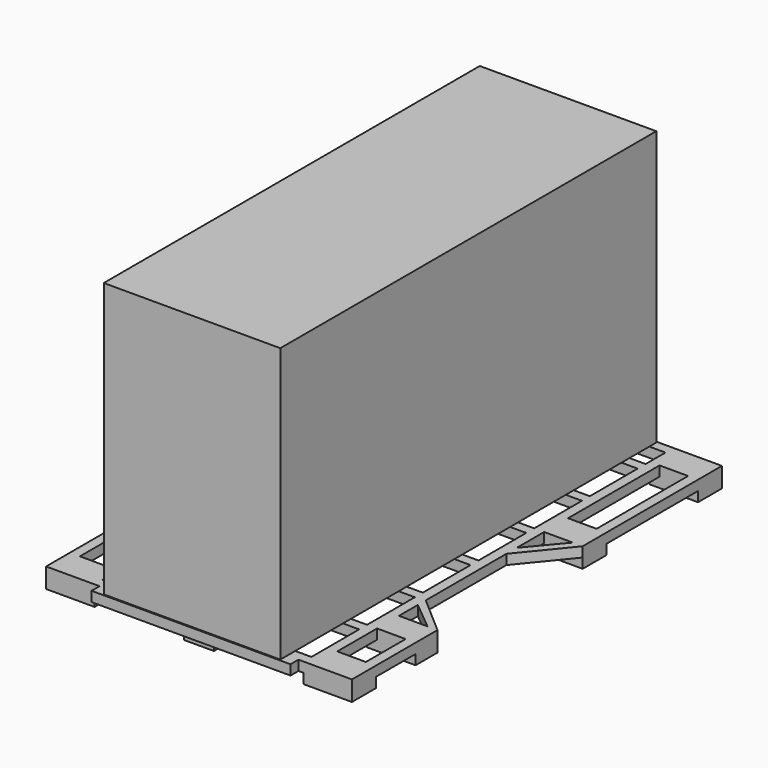
from build123d import *

# Parameters (mm, degrees)
F0_W     = 50.8
F0_H     = 50.8
F0_H_2   = 127
F0_H_3   = 304.8
F0_H_4   = 838.2
F0_H_5   = 495.3
F1_DEPTH = 25.4
F2_W     = 146.05
F2_H     = 101.6
F2_W_2   = 50.8
F2_H_2   = 114.3
F2_H_3   = 139.7
F2_H_4   = 152.4
F2_H_5   = 50.8
F2_H_6   = 127
F3_DEPTH = 50.8
F4_W     = 1016
F4_H     = 50.8
F5_DEPTH = 50.8
F6_W     = 901.7
F6_H     = 2400.3
F7_DEPTH = 1400.048


with BuildPart() as f1:
    # F0 (on Top) → F1 (new body, symmetric)
    with BuildSketch(Plane.XY):
        Polygon((-972.9399339676, 2560.3946716309), (-826.8899339676, 2560.3946716309), (-826.8899339676, 2611.1946716309), (-1023.7399339676, 2611.1946716309), (-1023.7399339676, 2560.3946716309), align=None)
        Polygon((-776.0899339676, 2611.1946716309), (-776.0899339676, 2560.3946716309), (-268.0899339676, 2560.3946716309), (-217.2899339676, 2560.3946716309), (290.7100660324, 2560.3946716309), (290.7100660324, 2611.1946716309), align=None)
        with Locations((-801.4899339676, 2585.7946716309)):
            Rectangle(F0_W, F0_H)
        Polygon((-826.8899339676, 915.7446716309), (-826.8899339676, 299.7946716309), (-776.0899339676, 299.7946716309), (-776.0899339676, 604.5946716309), (-776.0899339676, 655.3946716309), (-776.0899339676, 960.1946716309), (-776.0899339676, 1010.9946716309), (-776.0899339676, 1315.7946716309), (-776.0899339676, 1366.5946716309), (-776.0899339676, 1671.3946716309), (-776.0899339676, 1722.1946716309), (-776.0899339676, 2026.9946716309), (-776.0899339676, 2077.7946716309), (-776.0899339676, 2382.5946716309), (-776.0899339676, 2433.3946716309), (-776.0899339676, 2560.3946716309), (-826.8899339676, 2560.3946716309), (-826.8899339676, 1550.6180524826), (-826.8899339676, 1480.8946716309), (-826.8899339676, 966.5446716309), align=None)
        Polygon((341.5100660324, 2611.1946716309), (341.5100660324, 2560.3946716309), (487.5600660324, 2560.3946716309), (538.3600660324, 2560.3946716309), (538.3600660324, 2611.1946716309), align=None)
        with Locations((316.1100660324, 2585.7946716309)):
            Rectangle(F0_W, F0_H)
        Polygon((290.7100660324, 299.7946716309), (341.5100660324, 299.7946716309), (341.5100660324, 915.7446716309), (341.5100660324, 966.5446716309), (341.5100660324, 1480.8946716309), (341.5100660324, 1547.6679801941), (341.5100660324, 2560.3946716309), (290.7100660324, 2560.3946716309), (290.7100660324, 2433.3946716309), (290.7100660324, 2382.5946716309), (290.7100660324, 2077.7946716309), (290.7100660324, 2026.9946716309), (290.7100660324, 1722.1946716309), (290.7100660324, 1671.3946716309), (290.7100660324, 1366.5946716309), (290.7100660324, 1315.7946716309), (290.7100660324, 1010.9946716309), (290.7100660324, 960.1946716309), (290.7100660324, 655.3946716309), (290.7100660324, 604.5946716309), align=None)
        Polygon((-268.0899339676, 2433.3946716309), (-776.0899339676, 2433.3946716309), (-776.0899339676, 2382.5946716309), (-268.0899339676, 2382.5946716309), (-217.2899339676, 2382.5946716309), (290.7100660324, 2382.5946716309), (290.7100660324, 2433.3946716309), (-217.2899339676, 2433.3946716309), align=None)
        with Locations((-242.6899339676, 2496.8946716309)):
            Rectangle(F0_W, F0_H_2)
        with Locations((-242.6899339676, 2230.1946716309)):
            Rectangle(F0_W, F0_H_3)
        Polygon((-268.0899339676, 2077.7946716309), (-776.0899339676, 2077.7946716309), (-776.0899339676, 2026.9946716309), (-268.0899339676, 2026.9946716309), (-217.2899339676, 2026.9946716309), (290.7100660324, 2026.9946716309), (290.7100660324, 2077.7946716309), (-217.2899339676, 2077.7946716309), align=None)
        with Locations((-242.6899339676, 1874.5946716309)):
            Rectangle(F0_W, F0_H_3)
        with Locations((512.9600660324, 2141.2946716309)):
            Rectangle(F0_W, F0_H_4)
        Polygon((341.5100660324, 1547.6679801941), (341.5100660324, 1480.8946716309), (538.3600660324, 1722.1946716309), (487.5600660324, 1722.1946716309), align=None)
        Polygon((-776.0899339676, 1722.1946716309), (-776.0899339676, 1671.3946716309), (-268.0899339676, 1671.3946716309), (-217.2899339676, 1671.3946716309), (290.7100660324, 1671.3946716309), (290.7100660324, 1722.1946716309), (-217.2899339676, 1722.1946716309), (-268.0899339676, 1722.1946716309), align=None)
        with Locations((-998.3399339676, 2141.2946716309)):
            Rectangle(F0_W, F0_H_4)
        Polygon((-1023.7399339676, 1722.1946716309), (-826.8899339676, 1480.8946716309), (-826.8899339676, 1550.6180524826), (-972.9399339676, 1722.1946716309), align=None)
        Polygon((-776.0899339676, 1366.5946716309), (-776.0899339676, 1315.7946716309), (-268.0899339676, 1315.7946716309), (-217.2899339676, 1315.7946716309), (290.7100660324, 1315.7946716309), (290.7100660324, 1366.5946716309), (-217.2899339676, 1366.5946716309), (-268.0899339676, 1366.5946716309), align=None)
        with Locations((-242.6899339676, 1518.9946716309)):
            Rectangle(F0_W, F0_H_3)
        with Locations((-242.6899339676, 1163.3946716309)):
            Rectangle(F0_W, F0_H_3)
        Polygon((-776.0899339676, 1010.9946716309), (-776.0899339676, 960.1946716309), (-268.0899339676, 960.1946716309), (-217.2899339676, 960.1946716309), (290.7100660324, 960.1946716309), (290.7100660324, 1010.9946716309), (-217.2899339676, 1010.9946716309), (-268.0899339676, 1010.9946716309), align=None)
        with Locations((-242.6899339676, 807.7946716309)):
            Rectangle(F0_W, F0_H_3)
        Polygon((-776.0899339676, 655.3946716309), (-776.0899339676, 604.5946716309), (-268.0899339676, 604.5946716309), (-217.2899339676, 604.5946716309), (290.7100660324, 604.5946716309), (290.7100660324, 655.3946716309), (-217.2899339676, 655.3946716309), (-268.0899339676, 655.3946716309), align=None)
        with Locations((-242.6899339676, 452.1946716309)):
            Rectangle(F0_W, F0_H_3)
        Polygon((-826.8899339676, 299.7946716309), (-826.8899339676, 248.9946716309), (341.5100660324, 248.9946716309), (341.5100660324, 299.7946716309), (290.7100660324, 299.7946716309), (-217.2899339676, 299.7946716309), (-268.0899339676, 299.7946716309), (-776.0899339676, 299.7946716309), align=None)
        Polygon((341.5100660324, 299.7946716309), (341.5100660324, 248.9946716309), (538.3600660324, 248.9946716309), (538.3600660324, 299.7946716309), (487.5600660324, 299.7946716309), align=None)
        with Locations((512.9600660324, 547.4446716309)):
            Rectangle(F0_W, F0_H_5)
        Polygon((341.5100660324, 966.5446716309), (341.5100660324, 915.7446716309), (487.5600660324, 795.0946716309), (538.3600660324, 795.0946716309), align=None)
        Polygon((-972.9399339676, 795.0946716309), (-826.8899339676, 915.7446716309), (-826.8899339676, 966.5446716309), (-1023.7399339676, 795.0946716309), align=None)
        with Locations((-998.3399339676, 547.4446716309)):
            Rectangle(F0_W, F0_H_5)
        Polygon((-1023.7399339676, 248.9946716309), (-826.8899339676, 248.9946716309), (-826.8899339676, 299.7946716309), (-972.9399339676, 299.7946716309), (-1023.7399339676, 299.7946716309), align=None)
    extrude(amount=F1_DEPTH, both=True)

    # F2 (on face) → F3 (join, symmetric)
    with BuildSketch(Plane(origin=(0, 0, -25.4), x_dir=(1, 0, 0), z_dir=(0, 0, -1))):
        with Locations((-899.9149339676, -350.5946716309)):
            Rectangle(F2_W, F2_H)
        Polygon((-776.0899339676, -248.9946716309), (-1023.7399339676, -248.9946716309), (-1023.7399339676, -401.3946716309), (-972.9399339676, -401.3946716309), (-972.9399339676, -299.7946716309), (-826.8899339676, -299.7946716309), (-826.8899339676, -401.3946716309), (-776.0899339676, -401.3946716309), (-776.0899339676, -299.7946716309), align=None)
        Polygon((-166.4899339676, -248.9946716309), (-318.8899339676, -248.9946716309), (-318.8899339676, -299.7946716309), (-268.0899339676, -299.7946716309), (-268.0899339676, -414.0946716309), (-217.2899339676, -414.0946716309), (-217.2899339676, -299.7946716309), (-166.4899339676, -299.7946716309), align=None)
        with Locations((-293.4899339676, -356.9446716309)):
            Rectangle(F2_W_2, F2_H_2)
        with Locations((-191.8899339676, -356.9446716309)):
            Rectangle(F2_W_2, F2_H_2)
        with Locations((414.5350660324, -350.5946716309)):
            Rectangle(F2_W, F2_H)
        Polygon((538.3600660324, -248.9946716309), (290.7100660324, -248.9946716309), (290.7100660324, -299.7946716309), (290.7100660324, -401.3946716309), (341.5100660324, -401.3946716309), (341.5100660324, -299.7946716309), (487.5600660324, -299.7946716309), (487.5600660324, -401.3946716309), (538.3600660324, -401.3946716309), align=None)
        with Locations((414.5350660324, -725.2446716309)):
            Rectangle(F2_W, F2_H_3)
        with Locations((512.9600660324, -725.2446716309)):
            Rectangle(F2_W_2, F2_H_3)
        with Locations((316.1100660324, -725.2446716309)):
            Rectangle(F2_W_2, F2_H_3)
        with Locations((-899.9149339676, -718.8946716309)):
            Rectangle(F2_W, F2_H_4)
        Polygon((-776.0899339676, -642.6946716309), (-826.8899339676, -642.6946716309), (-826.8899339676, -795.0946716309), (-776.0899339676, -795.0946716309), (-776.0899339676, -655.3946716309), align=None)
        with Locations((-998.3399339676, -718.8946716309)):
            Rectangle(F2_W_2, F2_H_4)
        Polygon((-268.0899339676, -604.5946716309), (-318.8899339676, -604.5946716309), (-318.8899339676, -655.3946716309), (-268.0899339676, -655.3946716309), (-268.0899339676, -706.1946716309), (-217.2899339676, -706.1946716309), (-217.2899339676, -655.3946716309), (-166.4899339676, -655.3946716309), (-166.4899339676, -604.5946716309), (-217.2899339676, -604.5946716309), align=None)
        with Locations((-191.8899339676, -680.7946716309)):
            Rectangle(F2_W_2, F2_H_5)
        with Locations((-293.4899339676, -680.7946716309)):
            Rectangle(F2_W_2, F2_H_5)
        Polygon((-268.0899339676, -960.1946716309), (-318.8899339676, -960.1946716309), (-318.8899339676, -1010.9946716309), (-268.0899339676, -1010.9946716309), (-268.0899339676, -1061.7946716309), (-217.2899339676, -1061.7946716309), (-217.2899339676, -1010.9946716309), (-166.4899339676, -1010.9946716309), (-166.4899339676, -960.1946716309), (-217.2899339676, -960.1946716309), align=None)
        with Locations((-191.8899339676, -1036.3946716309)):
            Rectangle(F2_W_2, F2_H_5)
        with Locations((-293.4899339676, -1036.3946716309)):
            Rectangle(F2_W_2, F2_H_5)
        Polygon((-217.2899339676, -1315.7946716309), (-268.0899339676, -1315.7946716309), (-318.8899339676, -1315.7946716309), (-318.8899339676, -1366.5946716309), (-268.0899339676, -1366.5946716309), (-268.0899339676, -1417.3946716309), (-217.2899339676, -1417.3946716309), (-217.2899339676, -1366.5946716309), (-166.4899339676, -1366.5946716309), (-166.4899339676, -1315.7946716309), align=None)
        with Locations((-293.4899339676, -1391.9946716309)):
            Rectangle(F2_W_2, F2_H_5)
        with Locations((-191.8899339676, -1391.9946716309)):
            Rectangle(F2_W_2, F2_H_5)
        with Locations((-899.9149339676, -1798.3946716309)):
            Rectangle(F2_W, F2_H_4)
        with Locations((-801.4899339676, -1798.3946716309)):
            Rectangle(F2_W_2, F2_H_4)
        with Locations((-998.3399339676, -1798.3946716309)):
            Rectangle(F2_W_2, F2_H_4)
        with Locations((414.5350660324, -1798.3946716309)):
            Rectangle(F2_W, F2_H_4)
        with Locations((316.1100660324, -1798.3946716309)):
            Rectangle(F2_W_2, F2_H_4)
        with Locations((512.9600660324, -1798.3946716309)):
            Rectangle(F2_W_2, F2_H_4)
        Polygon((-318.8899339676, -1671.3946716309), (-318.8899339676, -1722.1946716309), (-268.0899339676, -1722.1946716309), (-268.0899339676, -1772.9946716309), (-217.2899339676, -1772.9946716309), (-217.2899339676, -1722.1946716309), (-166.4899339676, -1722.1946716309), (-166.4899339676, -1671.3946716309), (-217.2899339676, -1671.3946716309), (-268.0899339676, -1671.3946716309), align=None)
        with Locations((-191.8899339676, -1747.5946716309)):
            Rectangle(F2_W_2, F2_H_5)
        with Locations((-293.4899339676, -1747.5946716309)):
            Rectangle(F2_W_2, F2_H_5)
        Polygon((-268.0899339676, -2026.9946716309), (-318.8899339676, -2026.9946716309), (-318.8899339676, -2077.7946716309), (-268.0899339676, -2077.7946716309), (-268.0899339676, -2128.5946716309), (-217.2899339676, -2128.5946716309), (-217.2899339676, -2077.7946716309), (-166.4899339676, -2077.7946716309), (-166.4899339676, -2026.9946716309), (-217.2899339676, -2026.9946716309), align=None)
        with Locations((-191.8899339676, -2103.1946716309)):
            Rectangle(F2_W_2, F2_H_5)
        with Locations((-293.4899339676, -2103.1946716309)):
            Rectangle(F2_W_2, F2_H_5)
        Polygon((-318.8899339676, -2560.3946716309), (-318.8899339676, -2611.1946716309), (-166.4899339676, -2611.1946716309), (-166.4899339676, -2560.3946716309), (-217.2899339676, -2560.3946716309), (-217.2899339676, -2433.3946716309), (-166.4899339676, -2433.3946716309), (-166.4899339676, -2382.5946716309), (-217.2899339676, -2382.5946716309), (-268.0899339676, -2382.5946716309), (-318.8899339676, -2382.5946716309), (-318.8899339676, -2433.3946716309), (-268.0899339676, -2433.3946716309), (-268.0899339676, -2560.3946716309), align=None)
        with Locations((-191.8899339676, -2496.8946716309)):
            Rectangle(F2_W_2, F2_H_6)
        with Locations((-293.4899339676, -2496.8946716309)):
            Rectangle(F2_W_2, F2_H_6)
        with Locations((-899.9149339676, -2509.5946716309)):
            Rectangle(F2_W, F2_H)
        Polygon((-972.9399339676, -2458.7946716309), (-1023.7399339676, -2458.7946716309), (-1023.7399339676, -2611.1946716309), (-776.0899339676, -2611.1946716309), (-776.0899339676, -2560.3946716309), (-776.0899339676, -2458.7946716309), (-826.8899339676, -2458.7946716309), (-826.8899339676, -2560.3946716309), (-972.9399339676, -2560.3946716309), align=None)
        with Locations((414.5350660324, -2509.5946716309)):
            Rectangle(F2_W, F2_H)
        Polygon((538.3600660324, -2611.1946716309), (538.3600660324, -2458.7946716309), (487.5600660324, -2458.7946716309), (487.5600660324, -2560.3946716309), (341.5100660324, -2560.3946716309), (341.5100660324, -2458.7946716309), (290.7100660324, -2458.7946716309), (290.7100660324, -2560.3946716309), (290.7100660324, -2611.1946716309), align=None)
    extrude(amount=F3_DEPTH, both=True)

    # F4 (on face) → F5 (join)
    with BuildSketch(Plane.XY.offset(25.4)):
        with Locations((-242.6899339676, 223.5946716309)):
            Rectangle(F4_W, F4_H)
    extrude(amount=-F5_DEPTH)


with BuildPart() as f7:
    # F6 (on face) → F7 (new body)
    with BuildSketch(Plane.XY.offset(25.4)):
        with Locations((-242.6899339676, 1404.6946716309)):
            Rectangle(F6_W, F6_H)
    extrude(amount=F7_DEPTH)


solid = Compound([f1.part, f7.part])
